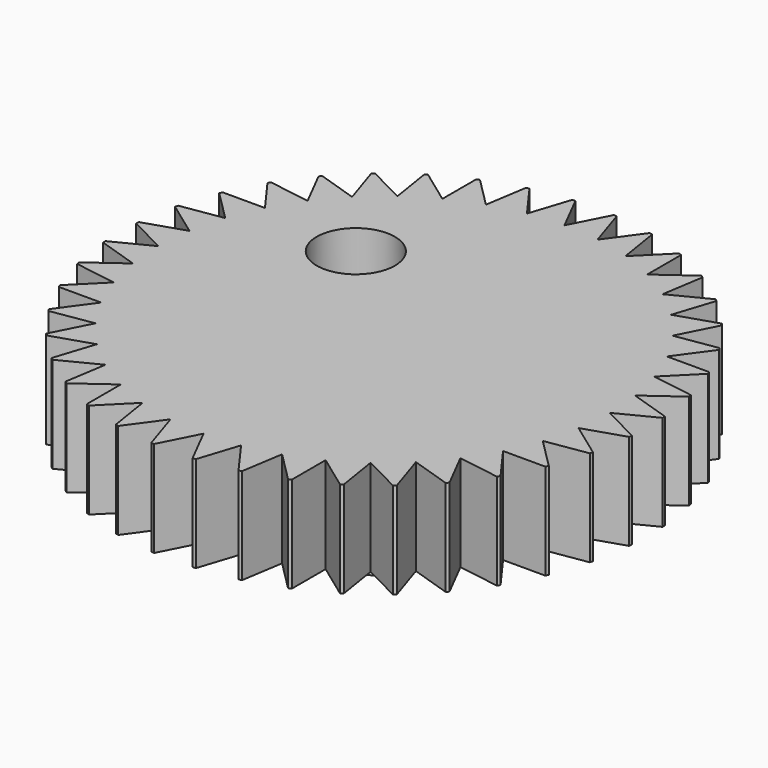
from build123d import *

# Parameters (mm, degrees)
F0_R           = 19.05
F1_DEPTH       = 6.35
F2_R           = 6.35
F3_DEPTH       = 31.75
F4_R           = 34.925
F5_DEPTH       = 12.7
F7_DEPTH       = 25.4
F9_DEPTH       = 25.4
F10_W          = 101.6
F10_H          = 25.4
F11_DEPTH      = 34.8335139058
F11_DEPTH_BACK = 34.8335139058
F12_R          = 5.1772448442
F13_DEPTH      = 25.4


with BuildPart() as f1:
    # F0 (on Top) → F1 (new body)
    with BuildSketch(Plane.XY):
        Circle(F0_R)
    extrude(amount=F1_DEPTH)

    # F2 (on face) → F3 (join)
    with BuildSketch(Plane.XY.offset(6.35)):
        Circle(F2_R)
    extrude(amount=F3_DEPTH)

    # F4 (on face) → F5 (join)
    with BuildSketch(Plane.XY.offset(38.1)):
        Circle(F4_R)
    extrude(amount=F5_DEPTH)

    # F6 (on face) → F7 (cut)
    with BuildSketch(Plane(origin=(0, 0, 0), x_dir=(1, 0, 0), z_dir=(0, 0, -1))):
        with BuildLine():
            Line((-2.54, 18.8799073091), (0, 16.51))
            Line((0, 16.51), (2.54, 18.8799073091))
            ThreePointArc((2.54, 18.8799073091), (0, 19.05), (-2.54, 18.8799073091))
        make_face()
        with BuildLine():
            Line((-8.2498957621, 17.1709557077), (-5.1018705771, 15.701943084))
            Line((-5.1018705771, 15.701943084), (-3.4185286593, 18.7407620391))
            ThreePointArc((-3.4185286593, 18.7407620391), (-5.8867737428, 18.1176266354), (-8.2498957621, 17.1709557077))
        make_face()
        with BuildLine():
            Line((-13.1522342466, 13.7811913245), (-9.7043345153, 13.3568705771))
            Line((-9.7043345153, 13.3568705771), (-9.0424279152, 16.7671404061))
            ThreePointArc((-9.0424279152, 16.7671404061), (-11.1973090562, 15.4117737428), (-13.1522342466, 13.7811913245))
        make_face()
        with BuildLine():
            Line((-16.7671404061, 9.0424279152), (-13.3568705771, 9.7043345153))
            Line((-13.3568705771, 9.7043345153), (-13.7811913245, 13.1522342466))
            ThreePointArc((-13.7811913245, 13.1522342466), (-15.4117737428, 11.1973090562), (-16.7671404061, 9.0424279152))
        make_face()
        with BuildLine():
            Line((-18.7407620391, 3.4185286593), (-15.701943084, 5.1018705771))
            Line((-15.701943084, 5.1018705771), (-17.1709557077, 8.2498957621))
            ThreePointArc((-17.1709557077, 8.2498957621), (-18.1176266354, 5.8867737428), (-18.7407620391, 3.4185286593))
        make_face()
        with BuildLine():
            Line((-18.8799073091, -2.54), (-16.51, 0))
            Line((-16.51, 0), (-18.8799073091, 2.54))
            ThreePointArc((-18.8799073091, 2.54), (-19.05, 0), (-18.8799073091, -2.54))
        make_face()
        with BuildLine():
            Line((-17.1709557077, -8.2498957621), (-15.701943084, -5.1018705771))
            Line((-15.701943084, -5.1018705771), (-18.7407620391, -3.4185286593))
            ThreePointArc((-18.7407620391, -3.4185286593), (-18.1176266354, -5.8867737428), (-17.1709557077, -8.2498957621))
        make_face()
        with BuildLine():
            Line((-13.7811913245, -13.1522342466), (-13.3568705771, -9.7043345153))
            Line((-13.3568705771, -9.7043345153), (-16.7671404061, -9.0424279152))
            ThreePointArc((-16.7671404061, -9.0424279152), (-15.4117737428, -11.1973090562), (-13.7811913245, -13.1522342466))
        make_face()
        with BuildLine():
            Line((-9.0424279152, -16.7671404061), (-9.7043345153, -13.3568705771))
            Line((-9.7043345153, -13.3568705771), (-13.1522342466, -13.7811913245))
            ThreePointArc((-13.1522342466, -13.7811913245), (-11.1973090562, -15.4117737428), (-9.0424279152, -16.7671404061))
        make_face()
        with BuildLine():
            Line((-3.4185286593, -18.7407620391), (-5.1018705771, -15.701943084))
            Line((-5.1018705771, -15.701943084), (-8.2498957621, -17.1709557077))
            ThreePointArc((-8.2498957621, -17.1709557077), (-5.8867737428, -18.1176266354), (-3.4185286593, -18.7407620391))
        make_face()
        with BuildLine():
            Line((2.54, -18.8799073091), (0, -16.51))
            Line((0, -16.51), (-2.54, -18.8799073091))
            ThreePointArc((-2.54, -18.8799073091), (0, -19.05), (2.54, -18.8799073091))
        make_face()
        with BuildLine():
            Line((8.2498957621, -17.1709557077), (5.1018705771, -15.701943084))
            Line((5.1018705771, -15.701943084), (3.4185286593, -18.7407620391))
            ThreePointArc((3.4185286593, -18.7407620391), (5.8867737428, -18.1176266354), (8.2498957621, -17.1709557077))
        make_face()
        with BuildLine():
            Line((13.1522342466, -13.7811913245), (9.7043345153, -13.3568705771))
            Line((9.7043345153, -13.3568705771), (9.0424279152, -16.7671404061))
            ThreePointArc((9.0424279152, -16.7671404061), (11.1973090562, -15.4117737428), (13.1522342466, -13.7811913245))
        make_face()
        with BuildLine():
            Line((16.7671404061, -9.0424279152), (13.3568705771, -9.7043345153))
            Line((13.3568705771, -9.7043345153), (13.7811913245, -13.1522342466))
            ThreePointArc((13.7811913245, -13.1522342466), (15.4117737428, -11.1973090562), (16.7671404061, -9.0424279152))
        make_face()
        with BuildLine():
            Line((18.7407620391, -3.4185286593), (15.701943084, -5.1018705771))
            Line((15.701943084, -5.1018705771), (17.1709557077, -8.2498957621))
            ThreePointArc((17.1709557077, -8.2498957621), (18.1176266354, -5.8867737428), (18.7407620391, -3.4185286593))
        make_face()
        with BuildLine():
            Line((18.8799073091, 2.54), (16.51, 0))
            Line((16.51, 0), (18.8799073091, -2.54))
            ThreePointArc((18.8799073091, -2.54), (19.05, 0), (18.8799073091, 2.54))
        make_face()
        with BuildLine():
            Line((17.1709557077, 8.2498957621), (15.701943084, 5.1018705771))
            Line((15.701943084, 5.1018705771), (18.7407620391, 3.4185286593))
            ThreePointArc((18.7407620391, 3.4185286593), (18.1176266354, 5.8867737428), (17.1709557077, 8.2498957621))
        make_face()
        with BuildLine():
            Line((13.7811913245, 13.1522342466), (13.3568705771, 9.7043345153))
            Line((13.3568705771, 9.7043345153), (16.7671404061, 9.0424279152))
            ThreePointArc((16.7671404061, 9.0424279152), (15.4117737428, 11.1973090562), (13.7811913245, 13.1522342466))
        make_face()
        with BuildLine():
            Line((9.0424279152, 16.7671404061), (9.7043345153, 13.3568705771))
            Line((9.7043345153, 13.3568705771), (13.1522342466, 13.7811913245))
            ThreePointArc((13.1522342466, 13.7811913245), (11.1973090562, 15.4117737428), (9.0424279152, 16.7671404061))
        make_face()
        with BuildLine():
            Line((3.4185286593, 18.7407620391), (5.1018705771, 15.701943084))
            Line((5.1018705771, 15.701943084), (8.2498957621, 17.1709557077))
            ThreePointArc((8.2498957621, 17.1709557077), (5.8867737428, 18.1176266354), (3.4185286593, 18.7407620391))
        make_face()
    extrude(amount=-F7_DEPTH, mode=Mode.SUBTRACT)

    # F8 (on face) → F9 (cut)
    with BuildSketch(Plane.XY.offset(50.8)):
        with BuildLine():
            Line((-2.54, 34.8325139058), (0, 29.845))
            Line((0, 29.845), (2.54, 34.8325139058))
            ThreePointArc((2.54, 34.8325139058), (0, 34.925), (-2.54, 34.8325139058))
        make_face()
        with BuildLine():
            Line((-7.957734064, 34.0063243172), (-4.6687866091, 29.4775585251))
            Line((-4.6687866091, 29.4775585251), (-2.9402772938, 34.8010113996))
            ThreePointArc((-2.9402772938, 34.8010113996), (-5.4634736915, 34.4950152953), (-7.957734064, 34.0063243172))
        make_face()
        with BuildLine():
            Line((-13.1795223051, 32.3427861634), (-9.2226121971, 28.3842817288))
            Line((-9.2226121971, 28.3842817288), (-8.3481552023, 33.9125924948))
            ThreePointArc((-8.3481552023, 33.9125924948), (-10.7924185285, 33.2156488316), (-13.1795223051, 32.3427861634))
        make_face()
        with BuildLine():
            Line((-18.0767869667, 29.8828612746), (-13.5493464647, 26.5920897144))
            Line((-13.5493464647, 26.5920897144), (-13.5504738239, 32.1891330133))
            ThreePointArc((-13.5504738239, 32.1891330133), (-15.8556182034, 31.1184028573), (-18.0767869667, 29.8828612746))
        make_face()
        with BuildLine():
            Line((-22.5289411398, 26.6871211658), (-17.5424508547, 24.1451121971))
            Line((-17.5424508547, 24.1451121971), (-18.4191348084, 29.6730702474))
            ThreePointArc((-18.4191348084, 29.6730702474), (-20.5283999363, 28.2549185285), (-22.5289411398, 26.6871211658))
        make_face()
        with BuildLine():
            Line((-26.4263580128, 22.8342555644), (-21.1036018845, 21.1036018845))
            Line((-21.1036018845, 21.1036018845), (-22.8342555644, 26.4263580128))
            ThreePointArc((-22.8342555644, 26.4263580128), (-24.6957043329, 24.6957043329), (-26.4263580128, 22.8342555644))
        make_face()
        with BuildLine():
            Line((-29.6730702474, 18.4191348084), (-24.1451121971, 17.5424508547))
            Line((-24.1451121971, 17.5424508547), (-26.6871211658, 22.5289411398))
            ThreePointArc((-26.6871211658, 22.5289411398), (-28.2549185285, 20.5283999363), (-29.6730702474, 18.4191348084))
        make_face()
        with BuildLine():
            Line((-32.1891330133, 13.5504738239), (-26.5920897144, 13.5493464647))
            Line((-26.5920897144, 13.5493464647), (-29.8828612746, 18.0767869667))
            ThreePointArc((-29.8828612746, 18.0767869667), (-31.1184028573, 15.8556182034), (-32.1891330133, 13.5504738239))
        make_face()
        with BuildLine():
            Line((-33.9125924948, 8.3481552023), (-28.3842817288, 9.2226121971))
            Line((-28.3842817288, 9.2226121971), (-32.3427861634, 13.1795223051))
            ThreePointArc((-32.3427861634, 13.1795223051), (-33.2156488316, 10.7924185285), (-33.9125924948, 8.3481552023))
        make_face()
        with BuildLine():
            Line((-34.8010113996, 2.9402772938), (-29.4775585251, 4.6687866091))
            Line((-29.4775585251, 4.6687866091), (-34.0063243172, 7.957734064))
            ThreePointArc((-34.0063243172, 7.957734064), (-34.4950152953, 5.4634736915), (-34.8010113996, 2.9402772938))
        make_face()
        with BuildLine():
            Line((-34.8325139058, -2.54), (-29.845, 0))
            Line((-29.845, 0), (-34.8325139058, 2.54))
            ThreePointArc((-34.8325139058, 2.54), (-34.925, 0), (-34.8325139058, -2.54))
        make_face()
        with BuildLine():
            Line((-34.0063243172, -7.957734064), (-29.4775585251, -4.6687866091))
            Line((-29.4775585251, -4.6687866091), (-34.8010113996, -2.9402772938))
            ThreePointArc((-34.8010113996, -2.9402772938), (-34.4950152953, -5.4634736915), (-34.0063243172, -7.957734064))
        make_face()
        with BuildLine():
            Line((-32.3427861634, -13.1795223051), (-28.3842817288, -9.2226121971))
            Line((-28.3842817288, -9.2226121971), (-33.9125924948, -8.3481552023))
            ThreePointArc((-33.9125924948, -8.3481552023), (-33.2156488316, -10.7924185285), (-32.3427861634, -13.1795223051))
        make_face()
        with BuildLine():
            Line((-29.8828612746, -18.0767869667), (-26.5920897144, -13.5493464647))
            Line((-26.5920897144, -13.5493464647), (-32.1891330133, -13.5504738239))
            ThreePointArc((-32.1891330133, -13.5504738239), (-31.1184028573, -15.8556182034), (-29.8828612746, -18.0767869667))
        make_face()
        with BuildLine():
            Line((-26.6871211658, -22.5289411398), (-24.1451121971, -17.5424508547))
            Line((-24.1451121971, -17.5424508547), (-29.6730702474, -18.4191348084))
            ThreePointArc((-29.6730702474, -18.4191348084), (-28.2549185285, -20.5283999363), (-26.6871211658, -22.5289411398))
        make_face()
        with BuildLine():
            Line((-22.8342555644, -26.4263580128), (-21.1036018845, -21.1036018845))
            Line((-21.1036018845, -21.1036018845), (-26.4263580128, -22.8342555644))
            ThreePointArc((-26.4263580128, -22.8342555644), (-24.6957043329, -24.6957043329), (-22.8342555644, -26.4263580128))
        make_face()
        with BuildLine():
            Line((-18.4191348084, -29.6730702474), (-17.5424508547, -24.1451121971))
            Line((-17.5424508547, -24.1451121971), (-22.5289411398, -26.6871211658))
            ThreePointArc((-22.5289411398, -26.6871211658), (-20.5283999363, -28.2549185285), (-18.4191348084, -29.6730702474))
        make_face()
        with BuildLine():
            Line((-13.5504738239, -32.1891330133), (-13.5493464647, -26.5920897144))
            Line((-13.5493464647, -26.5920897144), (-18.0767869667, -29.8828612746))
            ThreePointArc((-18.0767869667, -29.8828612746), (-15.8556182034, -31.1184028573), (-13.5504738239, -32.1891330133))
        make_face()
        with BuildLine():
            Line((-8.3481552023, -33.9125924948), (-9.2226121971, -28.3842817288))
            Line((-9.2226121971, -28.3842817288), (-13.1795223051, -32.3427861634))
            ThreePointArc((-13.1795223051, -32.3427861634), (-10.7924185285, -33.2156488316), (-8.3481552023, -33.9125924948))
        make_face()
        with BuildLine():
            Line((-2.9402772938, -34.8010113996), (-4.6687866091, -29.4775585251))
            Line((-4.6687866091, -29.4775585251), (-7.957734064, -34.0063243172))
            ThreePointArc((-7.957734064, -34.0063243172), (-5.4634736915, -34.4950152953), (-2.9402772938, -34.8010113996))
        make_face()
        with BuildLine():
            Line((2.54, -34.8325139058), (0, -29.845))
            Line((0, -29.845), (-2.54, -34.8325139058))
            ThreePointArc((-2.54, -34.8325139058), (0, -34.925), (2.54, -34.8325139058))
        make_face()
        with BuildLine():
            Line((7.957734064, -34.0063243172), (4.6687866091, -29.4775585251))
            Line((4.6687866091, -29.4775585251), (2.9402772938, -34.8010113996))
            ThreePointArc((2.9402772938, -34.8010113996), (5.4634736915, -34.4950152953), (7.957734064, -34.0063243172))
        make_face()
        with BuildLine():
            Line((13.1795223051, -32.3427861634), (9.2226121971, -28.3842817288))
            Line((9.2226121971, -28.3842817288), (8.3481552023, -33.9125924948))
            ThreePointArc((8.3481552023, -33.9125924948), (10.7924185285, -33.2156488316), (13.1795223051, -32.3427861634))
        make_face()
        with BuildLine():
            Line((18.0767869667, -29.8828612746), (13.5493464647, -26.5920897144))
            Line((13.5493464647, -26.5920897144), (13.5504738239, -32.1891330133))
            ThreePointArc((13.5504738239, -32.1891330133), (15.8556182034, -31.1184028573), (18.0767869667, -29.8828612746))
        make_face()
        with BuildLine():
            Line((22.5289411398, -26.6871211658), (17.5424508547, -24.1451121971))
            Line((17.5424508547, -24.1451121971), (18.4191348084, -29.6730702474))
            ThreePointArc((18.4191348084, -29.6730702474), (20.5283999363, -28.2549185285), (22.5289411398, -26.6871211658))
        make_face()
        with BuildLine():
            Line((26.4263580128, -22.8342555644), (21.1036018845, -21.1036018845))
            Line((21.1036018845, -21.1036018845), (22.8342555644, -26.4263580128))
            ThreePointArc((22.8342555644, -26.4263580128), (24.6957043329, -24.6957043329), (26.4263580128, -22.8342555644))
        make_face()
        with BuildLine():
            Line((29.6730702474, -18.4191348084), (24.1451121971, -17.5424508547))
            Line((24.1451121971, -17.5424508547), (26.6871211658, -22.5289411398))
            ThreePointArc((26.6871211658, -22.5289411398), (28.2549185285, -20.5283999363), (29.6730702474, -18.4191348084))
        make_face()
        with BuildLine():
            Line((32.1891330133, -13.5504738239), (26.5920897144, -13.5493464647))
            Line((26.5920897144, -13.5493464647), (29.8828612746, -18.0767869667))
            ThreePointArc((29.8828612746, -18.0767869667), (31.1184028573, -15.8556182034), (32.1891330133, -13.5504738239))
        make_face()
        with BuildLine():
            Line((33.9125924948, -8.3481552023), (28.3842817288, -9.2226121971))
            Line((28.3842817288, -9.2226121971), (32.3427861634, -13.1795223051))
            ThreePointArc((32.3427861634, -13.1795223051), (33.2156488316, -10.7924185285), (33.9125924948, -8.3481552023))
        make_face()
        with BuildLine():
            Line((34.8010113996, -2.9402772938), (29.4775585251, -4.6687866091))
            Line((29.4775585251, -4.6687866091), (34.0063243172, -7.957734064))
            ThreePointArc((34.0063243172, -7.957734064), (34.4950152953, -5.4634736915), (34.8010113996, -2.9402772938))
        make_face()
        with BuildLine():
            Line((34.8325139058, 2.54), (29.845, 0))
            Line((29.845, 0), (34.8325139058, -2.54))
            ThreePointArc((34.8325139058, -2.54), (34.925, 0), (34.8325139058, 2.54))
        make_face()
        with BuildLine():
            Line((34.0063243172, 7.957734064), (29.4775585251, 4.6687866091))
            Line((29.4775585251, 4.6687866091), (34.8010113996, 2.9402772938))
            ThreePointArc((34.8010113996, 2.9402772938), (34.4950152953, 5.4634736915), (34.0063243172, 7.957734064))
        make_face()
        with BuildLine():
            Line((32.3427861634, 13.1795223051), (28.3842817288, 9.2226121971))
            Line((28.3842817288, 9.2226121971), (33.9125924948, 8.3481552023))
            ThreePointArc((33.9125924948, 8.3481552023), (33.2156488316, 10.7924185285), (32.3427861634, 13.1795223051))
        make_face()
        with BuildLine():
            Line((29.8828612746, 18.0767869667), (26.5920897144, 13.5493464647))
            Line((26.5920897144, 13.5493464647), (32.1891330133, 13.5504738239))
            ThreePointArc((32.1891330133, 13.5504738239), (31.1184028573, 15.8556182034), (29.8828612746, 18.0767869667))
        make_face()
        with BuildLine():
            Line((26.6871211658, 22.5289411398), (24.1451121971, 17.5424508547))
            Line((24.1451121971, 17.5424508547), (29.6730702474, 18.4191348084))
            ThreePointArc((29.6730702474, 18.4191348084), (28.2549185285, 20.5283999363), (26.6871211658, 22.5289411398))
        make_face()
        with BuildLine():
            Line((22.8342555644, 26.4263580128), (21.1036018845, 21.1036018845))
            Line((21.1036018845, 21.1036018845), (26.4263580128, 22.8342555644))
            ThreePointArc((26.4263580128, 22.8342555644), (24.6957043329, 24.6957043329), (22.8342555644, 26.4263580128))
        make_face()
        with BuildLine():
            Line((18.4191348084, 29.6730702474), (17.5424508547, 24.1451121971))
            Line((17.5424508547, 24.1451121971), (22.5289411398, 26.6871211658))
            ThreePointArc((22.5289411398, 26.6871211658), (20.5283999363, 28.2549185285), (18.4191348084, 29.6730702474))
        make_face()
        with BuildLine():
            Line((13.5504738239, 32.1891330133), (13.5493464647, 26.5920897144))
            Line((13.5493464647, 26.5920897144), (18.0767869667, 29.8828612746))
            ThreePointArc((18.0767869667, 29.8828612746), (15.8556182034, 31.1184028573), (13.5504738239, 32.1891330133))
        make_face()
        with BuildLine():
            Line((8.3481552023, 33.9125924948), (9.2226121971, 28.3842817288))
            Line((9.2226121971, 28.3842817288), (13.1795223051, 32.3427861634))
            ThreePointArc((13.1795223051, 32.3427861634), (10.7924185285, 33.2156488316), (8.3481552023, 33.9125924948))
        make_face()
        with BuildLine():
            Line((2.9402772938, 34.8010113996), (4.6687866091, 29.4775585251))
            Line((4.6687866091, 29.4775585251), (7.957734064, 34.0063243172))
            ThreePointArc((7.957734064, 34.0063243172), (5.4634736915, 34.4950152953), (2.9402772938, 34.8010113996))
        make_face()
    extrude(amount=-F9_DEPTH, mode=Mode.SUBTRACT)

    # F10 (on Front) → F11 (cut, two sides)
    with BuildSketch(Plane.XZ) as f11_sk:
        with Locations((0, 12.7)):
            Rectangle(F10_W, F10_H)
    extrude(amount=-F11_DEPTH, mode=Mode.SUBTRACT)
    extrude(f11_sk.sketch, amount=F11_DEPTH_BACK, mode=Mode.SUBTRACT)

    # F12 (on face) → F13 (cut)
    with BuildSketch(Plane.XY.offset(50.8)):
        with Locations((-13.214321807, 11.8566863239)):
            Circle(F12_R)
    extrude(amount=-F13_DEPTH, mode=Mode.SUBTRACT)


solid = f1.part
